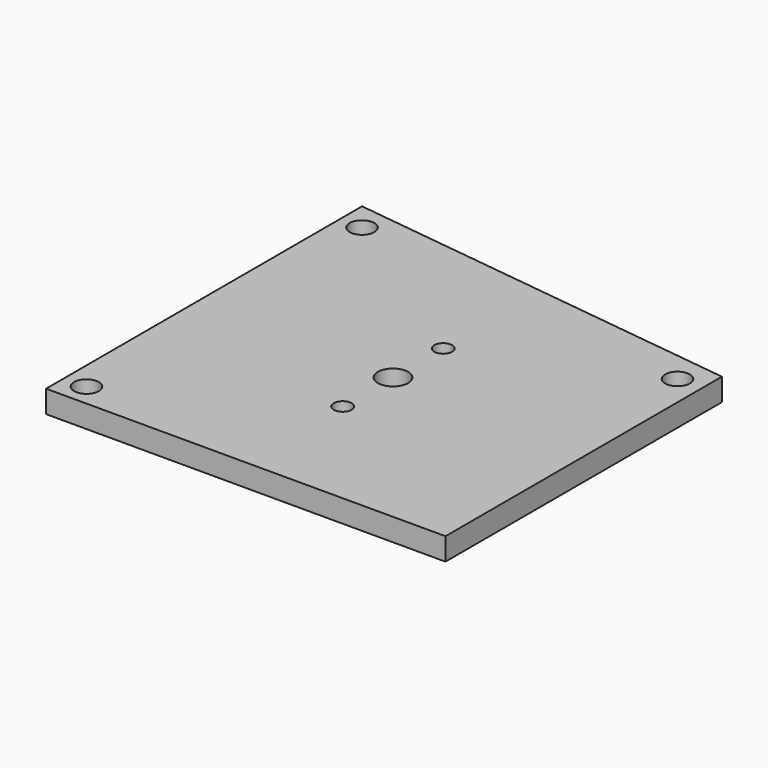
from build123d import *

# Parameters (mm, degrees)
F1_DEPTH = 5
F3_D     = 5.5
F5_D     = 6.7564
F7_D     = 4


with BuildPart() as f1:
    # F0 (on Top) → F1 (new body)
    with BuildSketch(Plane.XY):
        Polygon((0, 88), (0, 0), (89, 0), (89, 77), align=None)
    extrude(amount=-F1_DEPTH)

    # F3 (through all)
    with Locations(Plane.XY):
        with Locations((5, 5), (5, 81.75), (83.5, 71.5)):
            Hole(F3_D / 2)

    # F5 (through all)
    with Locations(Plane.XY):
        with Locations((44.5, 41)):
            Hole(F5_D / 2)

    # F7 (through all)
    with Locations(Plane.XY):
        with Locations((44.5, 55), (44.5, 27)):
            Hole(F7_D / 2)


solid = f1.part
